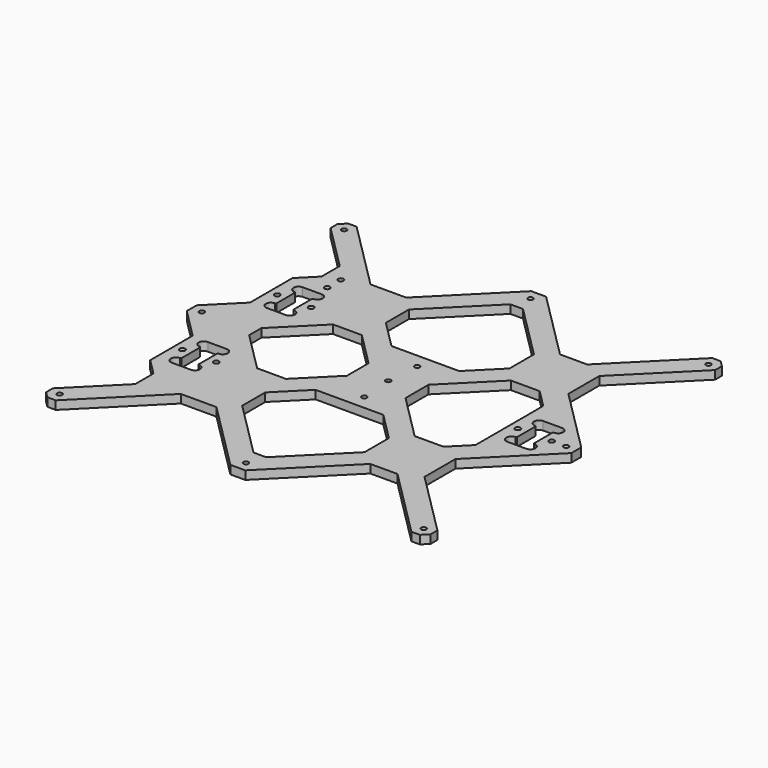
from build123d import *

# Parameters (mm, degrees)
PAD_DEPTH       = 5
SKETCH001_R     = 1.5
POCKET_DEPTH    = 5
SKETCH002_R     = 1.6
POCKET001_DEPTH = 510.471078
SKETCH003_R     = 1.6
POCKET002_DEPTH = 5.001


with BuildPart() as part:
    # Sketch → Pad (new body)
    with BuildSketch(Plane.XY):
        Polygon((-116, 0), (-116, 3.664466), (-98.5, 21.164466), (-98.5, 52.5), (-89, 62), (-89, 75.464466), (-116, 102.464466), (-116, 107.464466), (-112.464466, 111), (-107.464466, 111), (-66.464466, 70), (-45.4, 70), (-4.4, 111), (4.4, 111), (45.4, 70), (61.464466, 70), (102.464466, 111), (107.464466, 111), (111, 107.464466), (111, 102.464466), (73, 64.464466), (73, 41.664466), (111, 3.664466), (111, 0), align=None)
    pad = extrude(amount=PAD_DEPTH)

    # Sketch001 → Pocket (cut)
    with BuildSketch(Plane.XY.offset(5)):
        with Locations((-110, 0)):
            Circle(SKETCH001_R)
        with Locations((-110, 105)):
            Circle(SKETCH001_R)
        with Locations((0, 105)):
            Circle(SKETCH001_R)
        with Locations((105, 105)):
            Circle(SKETCH001_R)
        with Locations((105, 0)):
            Circle(SKETCH001_R)
        Circle(SKETCH001_R)
        with Locations((1.5, 19.5)):
            Circle(SKETCH001_R)
        Polygon((-78.5, 0), (-78.5, 4.5), (-55, 28), (-38, 28), (-18, 8), (-18, 0), align=None)
        Polygon((17, 0), (17, 8.5), (44, 35.5), (61, 35.5), (71.5, 25), (71.5, 0), align=None)
        Polygon((-3.75, 94.75), (3.75, 94.75), (36, 62.5), (36, 44.5), (19.5, 28), (-20.5, 28), (-37, 44.5), (-37, 61.5), align=None)
    pocket = extrude(amount=-POCKET_DEPTH, mode=Mode.SUBTRACT)

    # Sketch002 → Pocket001 (cut, through all)
    with BuildSketch(Plane.XY.offset(5)):
        with Locations((-93.5, 35)):
            Circle(SKETCH002_R)
        with Locations((-73.5, 35)):
            Circle(SKETCH002_R)
        with Locations((76.5, 0)):
            Circle(SKETCH002_R)
        with Locations((96.5, 0)):
            Circle(SKETCH002_R)
        with BuildLine():
            ThreePointArc((-89.1, 48.25), (-92.1, 45.25), (-89.1, 42.25))
            Line((-89.1, 42.25), (-89, 42.25))
            Line((-89, 42.25), (-88.5, 41.75))
            Line((-88.5, 41.75), (-88.5, 28.25))
            Line((-88.5, 28.25), (-89, 27.75))
            Line((-89, 27.75), (-89.1, 27.75))
            ThreePointArc((-89.1, 27.75), (-92.1, 24.75), (-89.1, 21.75))
            Line((-89.1, 21.75), (-77.9, 21.75))
            ThreePointArc((-77.9, 21.75), (-74.9, 24.75), (-77.9, 27.75))
            Line((-77.9, 27.75), (-78, 27.75))
            Line((-78, 27.75), (-78.5, 28.25))
            Line((-78.5, 28.25), (-78.5, 41.75))
            Line((-78.5, 41.75), (-78, 42.25))
            Line((-78, 42.25), (-77.9, 42.25))
            ThreePointArc((-77.9, 42.25), (-74.9, 45.25), (-77.9, 48.25))
            Line((-77.9, 48.25), (-89.1, 48.25))
        make_face()
        with BuildLine():
            ThreePointArc((80.9, 13.25), (77.9, 10.25), (80.9, 7.25))
            Line((80.9, 7.25), (81, 7.25))
            Line((81, 7.25), (81.5, 6.75))
            Line((81.5, 6.75), (81.5, 0))
            Line((81.5, 0), (91.5, 0))
            Line((91.5, 0), (91.5, 6.75))
            Line((91.5, 6.75), (92, 7.25))
            Line((92, 7.25), (92.1, 7.25))
            ThreePointArc((92.1, 7.25), (95.1, 10.25), (92.1, 13.25))
            Line((92.1, 13.25), (80.9, 13.25))
        make_face()
    pocket001 = extrude(amount=-POCKET001_DEPTH, mode=Mode.SUBTRACT)

    # Mirrored: Pad, Pocket, Pocket001 across Sketch H_Axis
    add(pad.mirror(Plane.ZX))
    add(pocket.mirror(Plane.ZX), mode=Mode.SUBTRACT)
    add(pocket001.mirror(Plane.ZX), mode=Mode.SUBTRACT)

    # Sketch003 → Pocket002 (cut, through all)
    with BuildSketch(Plane.XY.offset(5)):
        with Locations((-80, 65)):
            Circle(SKETCH003_R)
        with Locations((-80, 55)):
            Circle(SKETCH003_R)
    extrude(amount=-POCKET002_DEPTH, mode=Mode.SUBTRACT)


solid = part.part
